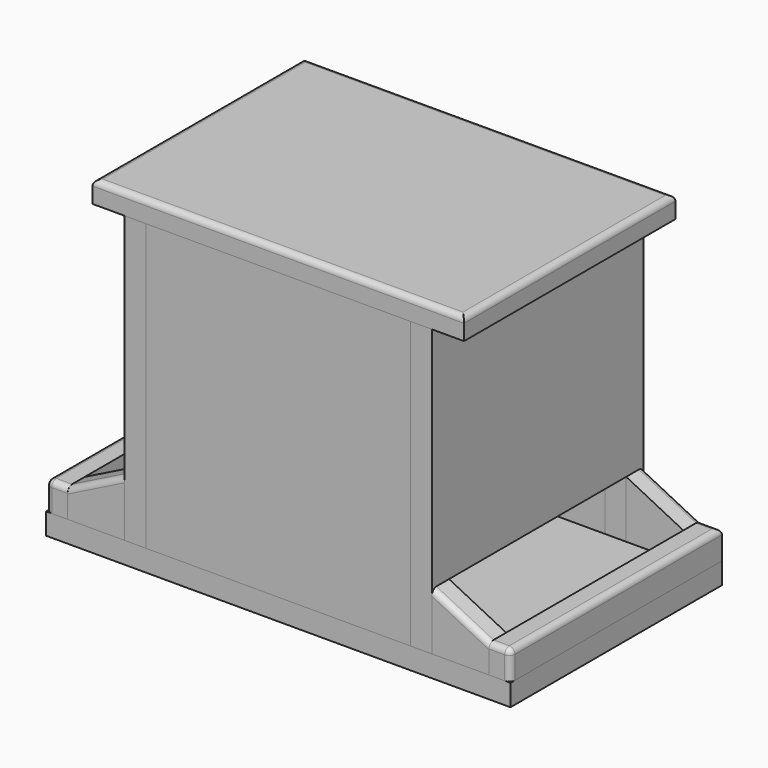
from build123d import *

# Parameters (mm, degrees)
F0_W      = 412.75
F0_H      = 234.95
F1_DEPTH  = 19.05
F2_W      = 19.05
F2_H      = 234.95
F3_DEPTH  = 25.4
F4_W      = 50.8
F4_H      = 19.05
F5_DEPTH  = 50.8
F6_W      = 19.05
F6_H      = 234.95
F7_DEPTH  = 254
F8_W      = 196.85
F8_H      = 50.8
F9_DEPTH  = 273.05
F10_W     = 234.95
F10_H     = 19.05
F11_DEPTH = 254
F12_W     = 330.2
F12_H     = 234.95
F13_DEPTH = 19.05
F15_DEPTH = 234.951
F16_R     = 5.08
F16_2_R   = 5.08
F16_3_R   = 5.08


with BuildPart() as f1:
    # F0 (on Top) → F1 (new body)
    with BuildSketch(Plane.XY):
        Rectangle(F0_W, F0_H)
    extrude(amount=F1_DEPTH)


with BuildPart() as f3:
    # F2 (on face) → F3 (new body)
    with BuildSketch(Plane.XY.offset(19.05)):
        with Locations((-196.85, 0)):
            Rectangle(F2_W, F2_H)
        with Locations((196.85, 0)):
            Rectangle(F2_W, F2_H)
    extrude(amount=F3_DEPTH)

    # F16
    f16_edges = [f3.edges().sort_by_distance(p)[0] for p in [
        (-206.375, 0, 44.45),
        (206.375, 0, 44.45),
        (196.85, 117.475, 44.45),
        (-196.85, 117.475, 44.45),
        (-206.375, -117.475, 31.75),
        (-206.375, 117.475, 31.75),
        (206.375, -117.475, 31.75),
        (196.85, -117.475, 44.45),
        (-196.85, -117.475, 44.45),
    ]]
    fillet(f16_edges, radius=F16_R)


with BuildPart() as f5:
    # F4 (on face) → F5 (new body)
    with BuildSketch(Plane.XY.offset(19.05)):
        with Locations((-161.925, 107.95)):
            Rectangle(F4_W, F4_H)
        with Locations((-161.925, -107.95)):
            Rectangle(F4_W, F4_H)
    extrude(amount=F5_DEPTH)

    # F14 (on face) → F15 (cut, through all)
    with BuildSketch(Plane.XZ.offset(117.475)):
        Polygon((-187.325, 44.45), (-136.525, 69.85), (-187.325, 69.85), align=None)
    extrude(amount=-F15_DEPTH, mode=Mode.SUBTRACT)

    # F16#2
    f16_2_edges = [f5.edges().sort_by_distance(p)[0] for p in [
        (-161.925, 117.475, 57.15),
        (-161.925, -117.475, 57.15),
    ]]
    fillet(f16_2_edges, radius=F16_2_R)


with BuildPart() as f7:
    # F6 (on face) → F7 (new body)
    with BuildSketch(Plane.XY.offset(19.05)):
        with Locations((-127, 0)):
            Rectangle(F6_W, F6_H)
        with Locations((127, 0)):
            Rectangle(F6_W, F6_H)
    extrude(amount=F7_DEPTH)

    # F8 (on face) → F9 (cut, through all)
    with BuildSketch(Plane.YZ.offset(136.525)):
        with Locations((0, 44.45)):
            Rectangle(F8_W, F8_H)
    extrude(amount=-F9_DEPTH, mode=Mode.SUBTRACT)


with BuildPart() as f11:
    # F10 (on face) → F11 (new body)
    with BuildSketch(Plane.XY.offset(19.05)):
        with Locations((0, 107.95)):
            Rectangle(F10_W, F10_H)
        with Locations((0, -107.95)):
            Rectangle(F10_W, F10_H)
    extrude(amount=F11_DEPTH)


with BuildPart() as f13:
    # F12 (on face) → F13 (new body)
    with BuildSketch(Plane.XY.offset(273.05)):
        Rectangle(F12_W, F12_H)
    extrude(amount=F13_DEPTH)

    # F16#3
    f16_3_edges = [f13.edges().sort_by_distance(p)[0] for p in [
        (0, 117.475, 292.1),
        (-165.1, 0, 292.1),
        (0, -117.475, 292.1),
        (165.1, 0, 292.1),
    ]]
    fillet(f16_3_edges, radius=F16_3_R)


with BuildPart() as f17_1:
    # F17: instance of F5
    add(f5.part.mirror(Plane.YZ))


solid = Compound([f1.part, f3.part, f5.part, f7.part, f11.part, f13.part, f17_1.part])
